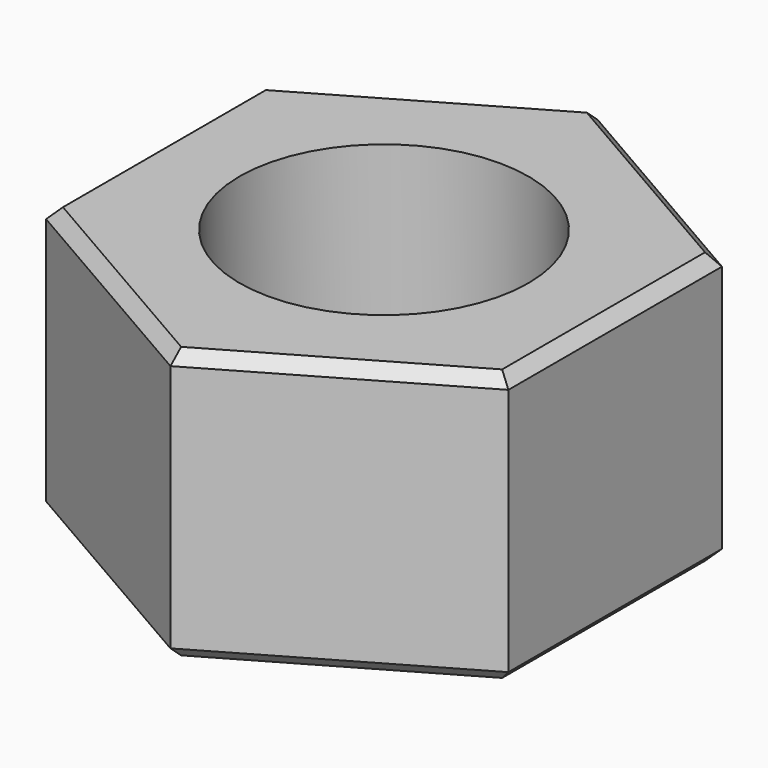
from build123d import *

# Parameters (mm, degrees)
PAD_DEPTH    = 4.7
SKETCH001_R  = 2.5
POCKET_DEPTH = 4.7
CHAMFER_SIZE = 0.2


with BuildPart() as part:
    # Sketch → Pad (new body)
    with BuildSketch(Plane.XY):
        Polygon((-38.60959, 29.262009), (-38.60959, 33.880811), (-42.60959, 36.190212), (-46.60959, 33.880811), (-46.60959, 29.262009), (-42.60959, 26.952608), align=None)
    extrude(amount=PAD_DEPTH)

    # Sketch001 → Pocket (cut)
    with BuildSketch(Plane.XY.offset(4.7)):
        with Locations((-42.60959, 31.57141)):
            Circle(SKETCH001_R)
    extrude(amount=-POCKET_DEPTH, mode=Mode.SUBTRACT)

    # Chamfer
    chamfer_edges = [part.edges().sort_by_distance(p)[0] for p in [
        (-40.60959, 28.107309, 4.7),
        (-38.60959, 31.57141, 4.7),
        (-40.60959, 35.035512, 4.7),
        (-44.60959, 35.035512, 4.7),
        (-46.60959, 31.57141, 4.7),
        (-44.60959, 28.107309, 4.7),
        (-44.60959, 28.107309, 0),
        (-46.60959, 31.57141, 0),
        (-44.60959, 35.035512, 0),
        (-40.60959, 35.035512, 0),
        (-38.60959, 31.57141, 0),
        (-40.60959, 28.107309, 0),
    ]]
    chamfer(chamfer_edges, length=CHAMFER_SIZE)


solid = part.part
